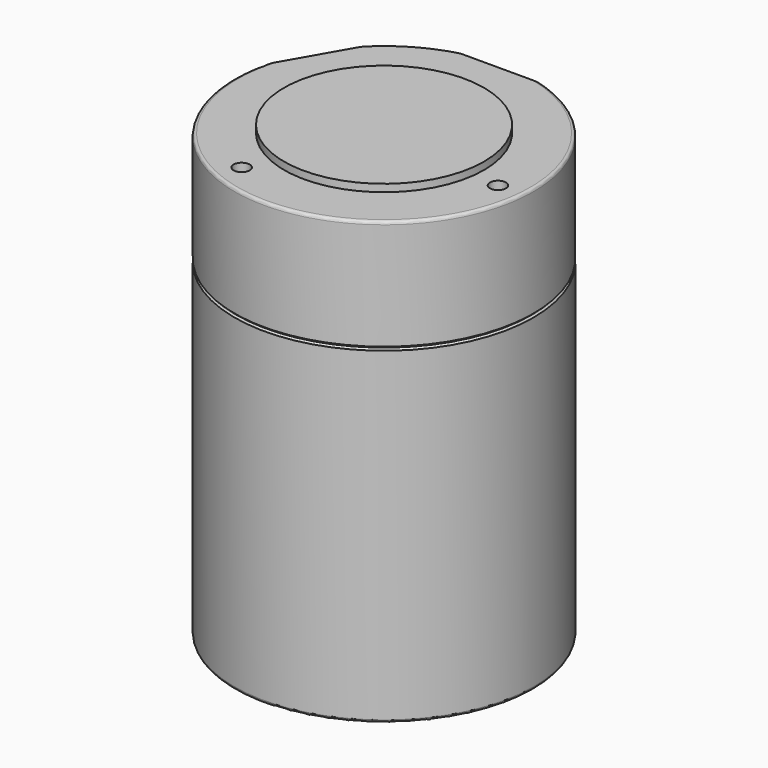
from build123d import *

# Parameters (mm, degrees)
F0_R      = 31.75
F1_DEPTH  = 93.853
F2_R      = 21.2471
F3_DEPTH  = 1.5748
F5_DEPTH  = 23.7998
F7_DEPTH  = 23.7998
F8_R      = 1.7018
F9_DEPTH  = 12.7
F10_DEPTH = 12.7
F11_R     = 0.635
F12_R     = 0.635
F13_R     = 0.635
F14_R     = 6.35
F15_DEPTH = 25.4
F16_R     = 6.35
F17_DEPTH = 25.4


with BuildPart() as f1:
    # F0 (on Top) → F1 (new body)
    with BuildSketch(Plane.XY):
        Circle(F0_R)
    extrude(amount=F1_DEPTH)

    # F2 (on face) → F3 (join)
    with BuildSketch(Plane.XY.offset(93.853)):
        Circle(F2_R)
    extrude(amount=F3_DEPTH)

    # F4 (on face) → F5 (cut)
    with BuildSketch(Plane.XY.offset(93.853)):
        with BuildLine():
            Line((-9.6392581686, 30.2514), (9.6392581686, 30.2514))
            ThreePointArc((9.6392581686, 30.2514), (0, 31.75), (-9.6392581686, 30.2514))
        make_face()
    extrude(amount=-F5_DEPTH, mode=Mode.SUBTRACT)

    # F6 (on face) → F7 (cut, through all)
    with BuildSketch(Plane.XY.offset(93.853)):
        with BuildLine():
            Line((-31.0418451257, 6.6683094701), (-21.4615892087, 23.397920605))
            ThreePointArc((-21.4615892087, 23.397920605), (-27.5521800663, 15.7778285449), (-31.0418451257, 6.6683094701))
        make_face()
    extrude(amount=-F7_DEPTH, mode=Mode.SUBTRACT)

    # F8 (on face) → F9 (cut)
    with BuildSketch(Plane.XY.offset(93.853)):
        with Locations((-10.738599221, -24.3847738544)):
            Circle(F8_R)
    extrude(amount=-F9_DEPTH, mode=Mode.SUBTRACT)

    # F8 (on face) → F10 (cut)
    with BuildSketch(Plane.XY.offset(93.853)):
        with Locations((26.4903553103, -2.8628280933)):
            Circle(F8_R)
    extrude(amount=-F10_DEPTH, mode=Mode.SUBTRACT)

    # F11
    f11_edges = [f1.edges().sort_by_distance(p)[0] for p in [
        (-3.352903, -31.572465, 93.853),
    ]]
    fillet(f11_edges, radius=F11_R)

    # F12
    f12_edges = [f1.edges().sort_by_distance(p)[0] for p in [
        (-15.923512, 27.468241, 93.853),
    ]]
    fillet(f12_edges, radius=F12_R)

    # F13
    f13_edges = [f1.edges().sort_by_distance(p)[0] for p in [
        (-31.75, 0, 0),
    ]]
    fillet(f13_edges, radius=F13_R)

    # F14 (on face) → F15 (cut)
    with BuildSketch(Plane(origin=(0, 30.2514, 0), x_dir=(-1, 0, 0), z_dir=(0, 1, 0))):
        with Locations((0, 81.9531)):
            Circle(F14_R)
    extrude(amount=-F15_DEPTH, mode=Mode.SUBTRACT)

    # F16 (on face) → F17 (cut)
    with BuildSketch(Plane(origin=(-26.2517171672, 15.0331150376, 0), x_dir=(-0.4969394817, -0.8677851989, 0), z_dir=(-0.8677851989, 0.4969394817, 0))):
        with Locations((-0.1142581686, 81.9531)):
            Circle(F16_R)
    extrude(amount=-F17_DEPTH, mode=Mode.SUBTRACT)

    # F20 (on Front) → F21 (revolve, cut)
    with BuildSketch(Plane.XZ):
        Polygon((31.75, 69.6722), (31.75, 70.4342), (31.369, 70.0532), align=None)
    revolve(axis=Axis((0, 0, 0), (0, 0, -1)), mode=Mode.SUBTRACT)


solid = f1.part
